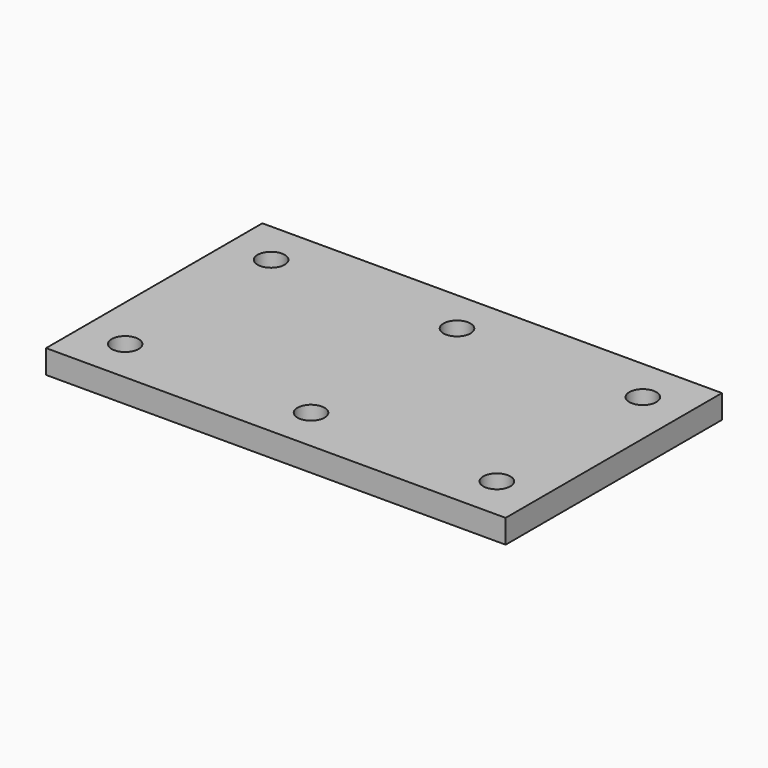
from build123d import *

# Parameters (mm, degrees)
F0_W     = 431.8
F0_H     = 254
F0_R     = 12.7
F1_DEPTH = 22.225


with BuildPart() as f1:
    # F0 (on Top) → F1 (new body)
    with BuildSketch(Plane.XY):
        Rectangle(F0_W, F0_H)
        with Locations((-174.625, -85.725)):
            Circle(F0_R, mode=Mode.SUBTRACT)
        with Locations((0, -85.725)):
            Circle(F0_R, mode=Mode.SUBTRACT)
        with Locations((174.625, -85.725)):
            Circle(F0_R, mode=Mode.SUBTRACT)
        with Locations((-174.625, 85.725)):
            Circle(F0_R, mode=Mode.SUBTRACT)
        with Locations((0, 85.725)):
            Circle(F0_R, mode=Mode.SUBTRACT)
        with Locations((174.625, 85.725)):
            Circle(F0_R, mode=Mode.SUBTRACT)
    extrude(amount=F1_DEPTH)


solid = f1.part
